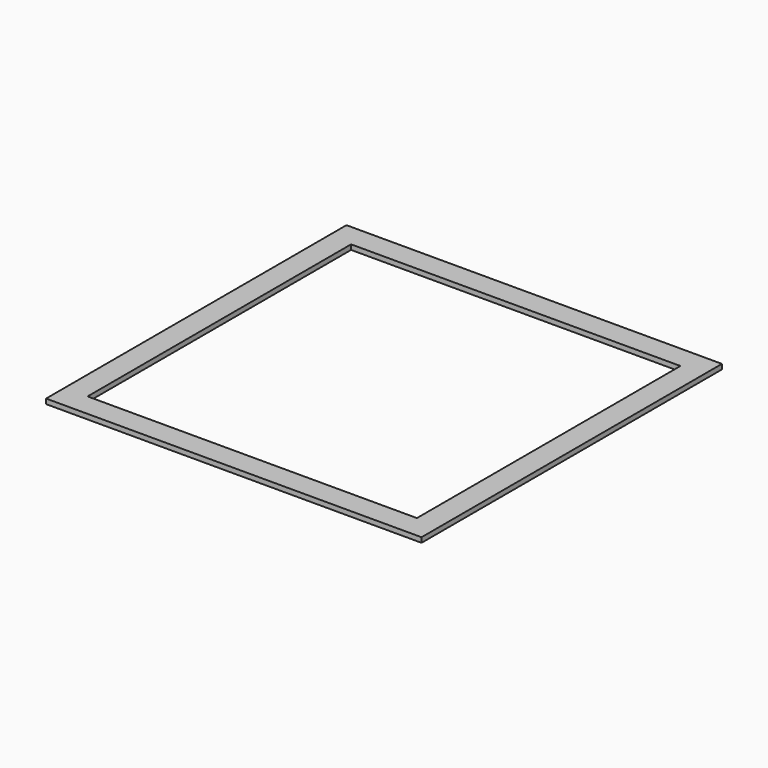
from build123d import *

# Parameters (mm, degrees)
F0_W     = 114
F0_H     = 114
F1_DEPTH = 1.5
F2_W     = 100
F2_H     = 100
F3_DEPTH = 1.501


with BuildPart() as f1:
    # F0 (on Top) → F1 (new body)
    with BuildSketch(Plane.XY):
        Rectangle(F0_W, F0_H)
    extrude(amount=F1_DEPTH)

    # F2 (on Top) → F3 (cut, through all)
    with BuildSketch(Plane.XY):
        Rectangle(F2_W, F2_H)
    extrude(amount=F3_DEPTH, mode=Mode.SUBTRACT)


solid = f1.part
